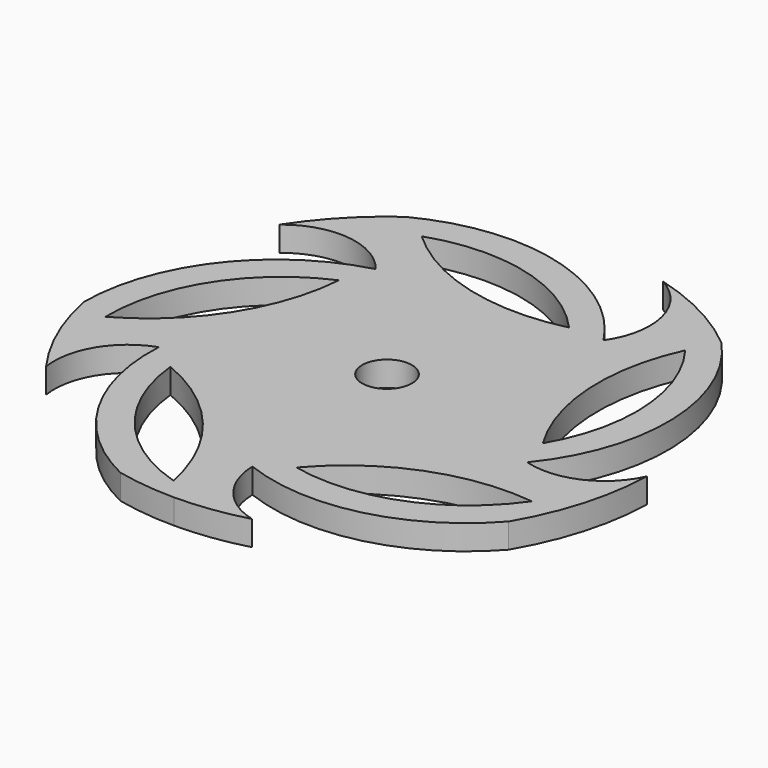
from build123d import *

# Parameters (mm, degrees)
F0_R     = 3.5
F1_DEPTH = 3.5


with BuildPart() as f1:
    # F0 (on Top) → F1 (new body)
    with BuildSketch(Plane.XY):
        with BuildLine():
            ThreePointArc((24.000409, 28.813719), (17.339963, 33.250198), (9.889815, 36.172387))
            ThreePointArc((9.889815, 36.172387), (15.064313, 29.480693), (13.531083, 21.161834))
            ThreePointArc((13.531083, 21.161834), (-2.353781, 32.661804), (-21.842897, 30.481763))
            ThreePointArc((-21.842897, 30.481763), (-27.127134, 25.891478), (-31.466258, 20.399132))
            ThreePointArc((-31.466258, 20.399132), (-23.677264, 22.749389), (-16.590395, 18.753338))
            ThreePointArc((-16.590395, 18.753338), (-31.10617, 9.085569), (-36.759965, -7.413161))
            ThreePointArc((-36.759965, -7.413161), (-34.359139, -15.023302), (-30.402452, -21.953153))
            ThreePointArc((-30.402452, -21.953153), (-29.038423, -15.074674), (-23.607828, -10.638156))
            ThreePointArc((-23.607828, -10.638156), (-19.850574, -25.93753), (-8.238368, -36.583867))
            ThreePointArc((-8.238368, -36.583867), (-4.144575, -37.270263), (0, -37.5))
            ThreePointArc((0, -37.5), (5.011318, -37.163647), (9.93274, -36.160623))
            ThreePointArc((9.93274, -36.160623), (4.421922, -32.574345), (2.176638, -26.394603))
            ThreePointArc((2.176638, -26.394603), (18.411323, -27.426255), (32.32836, -19.003345))
            ThreePointArc((32.32836, -19.003345), (36.026669, -10.408128), (37.481903, -1.164885))
            ThreePointArc((37.481903, -1.164885), (32.343201, -6.250939), (25.129748, -6.741128))
            ThreePointArc((25.129748, -6.741128), (31.187922, 11.246658), (24.000409, 28.813719))
        make_face()
        with BuildLine():
            ThreePointArc((-2.50617, -34.420107), (-14.267465, -26.553792), (-19.689998, -13.484626))
            ThreePointArc((-19.689998, -13.484626), (-8.469615, -21.794921), (-2.50617, -34.420107))
        make_face(mode=Mode.SUBTRACT)
        with BuildLine():
            ThreePointArc((31.315388, -13.674761), (20.199638, -22.429591), (6.094468, -23.548133))
            ThreePointArc((6.094468, -23.548133), (17.465317, -15.444937), (31.315388, -13.674761))
        make_face(mode=Mode.SUBTRACT)
        with BuildLine():
            ThreePointArc((-32.687603, -8.664558), (-28.840733, 4.951922), (-18.086873, 14.147653))
            ThreePointArc((-18.086873, 14.147653), (-22.523144, 0.908412), (-32.687603, -8.664558))
        make_face(mode=Mode.SUBTRACT)
        with BuildLine():
            ThreePointArc((-17.519196, 27.998593), (-3.380406, 28.547725), (8.688379, 21.161834))
            ThreePointArc((8.688379, 21.161834), (-5.27377, 21.289827), (-17.519196, 27.998593))
        make_face(mode=Mode.SUBTRACT)
        Circle(F0_R, mode=Mode.SUBTRACT)
        with BuildLine():
            ThreePointArc((22.036828, 24.902117), (26.92821, 11.625019), (23.63327, -2.135443))
            ThreePointArc((23.63327, -2.135443), (19.440457, 11.182902), (22.036828, 24.902117))
        make_face(mode=Mode.SUBTRACT)
    extrude(amount=F1_DEPTH)


solid = f1.part
